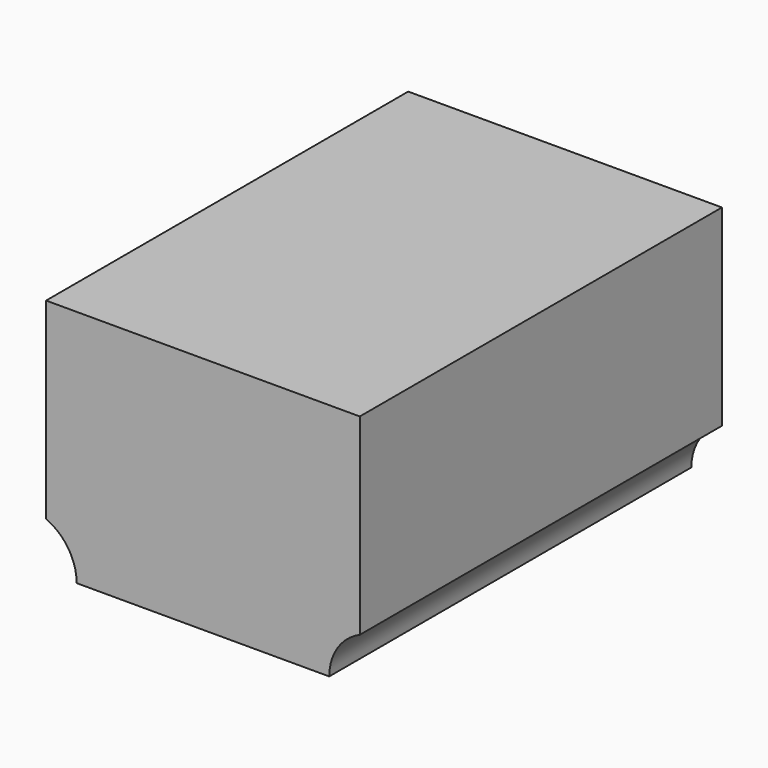
from build123d import *

# Parameters (mm, degrees)
F1_DEPTH      = 101.6
F1_DEPTH_BACK = 45.974


with BuildPart() as f1:
    # F0 (on Front) → F1 (new body, two sides)
    with BuildSketch(Plane.XZ) as f1_sk:
        Polygon((-51.140413, 31.179156), (-51.140413, 0), (0, 0), (51.140413, 0), (51.140413, 31.179156), align=None)
        with BuildLine():
            ThreePointArc((-51.140413, -31.491171), (-43.887291, -37.600033), (-41.173126, -46.686247))
            Line((-41.173126, -46.686247), (41.173126, -46.686247))
            ThreePointArc((41.173126, -46.686247), (43.887291, -37.600033), (51.140413, -31.491171))
            Line((51.140413, -31.491171), (51.140413, 0))
            Line((51.140413, 0), (0, 0))
            Line((0, 0), (-51.140413, 0))
            Line((-51.140413, 0), (-51.140413, -31.491171))
        make_face()
    extrude(amount=F1_DEPTH)
    extrude(f1_sk.sketch, amount=-F1_DEPTH_BACK)


solid = f1.part
